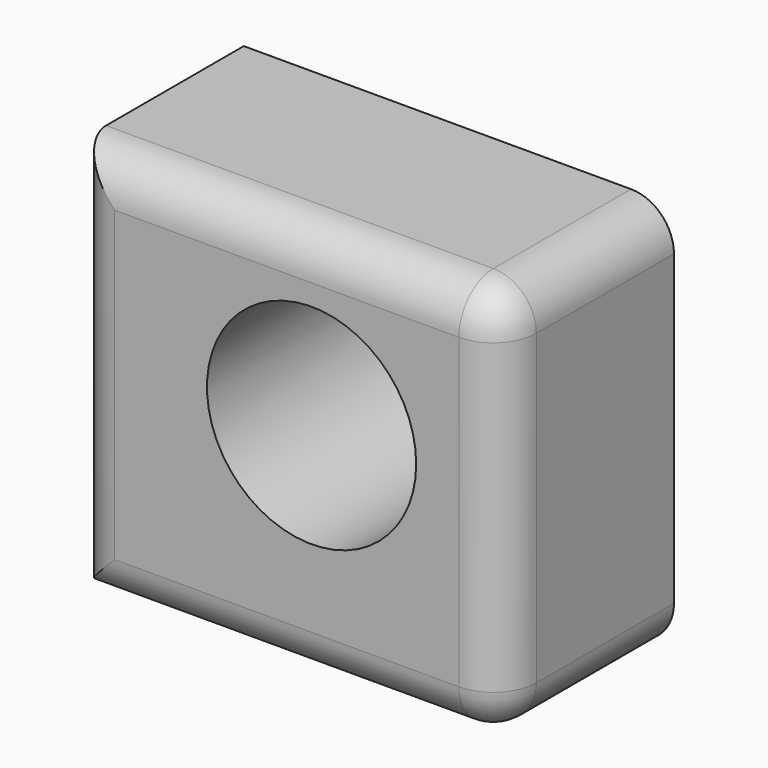
from build123d import *

# Parameters (mm, degrees)
F0_W     = 50.8
F0_H     = 25.4
F1_DEPTH = 46.482
F2_R     = 12.351013
F3_DEPTH = 25.4
F4_R     = 5.08
F5_R     = 5.08


with BuildPart() as f1:
    # F0 (on Top) → F1 (new body)
    with BuildSketch(Plane.XY):
        with Locations((25.4, 12.7)):
            Rectangle(F0_W, F0_H)
    extrude(amount=F1_DEPTH)

    # F2 (on face) → F3 (cut)
    with BuildSketch(Plane.XZ):
        with Locations((28.329594, 26.583312)):
            Circle(F2_R)
    extrude(amount=-F3_DEPTH, mode=Mode.SUBTRACT)

    # F4
    f4_edges = [f1.edges().sort_by_distance(p)[0] for p in [
        (50.8, 0, 23.241),
    ]]
    fillet(f4_edges, radius=F4_R)

    # F5
    f5_edges = [f1.edges().sort_by_distance(p)[0] for p in [
        (22.86, 0, 0),
        (0, 0, 23.241),
        (22.86, 0, 46.482),
    ]]
    fillet(f5_edges, radius=F5_R)


solid = f1.part
